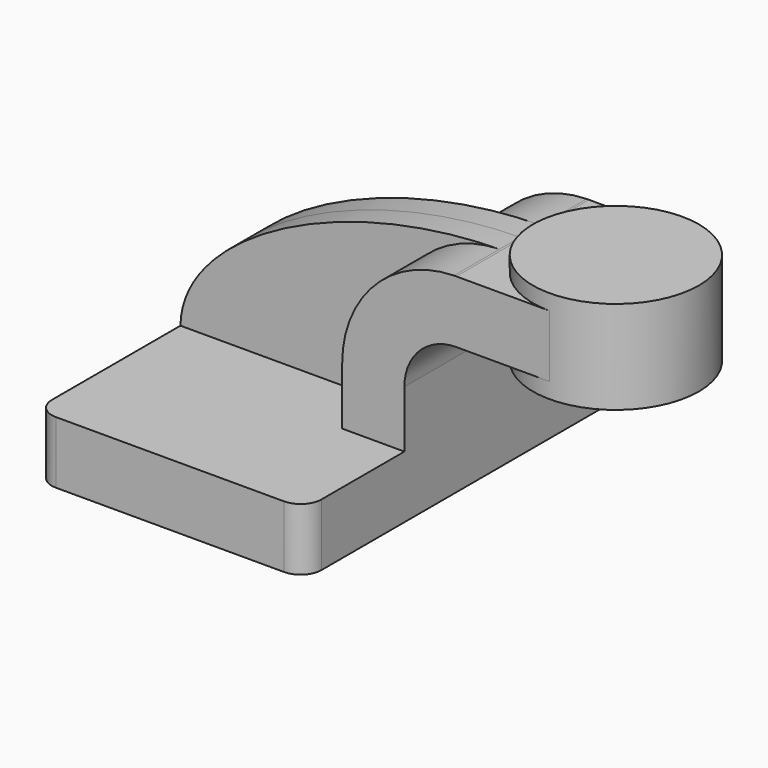
from build123d import *

# Parameters (mm, degrees)
F1_DEPTH = 63.5
F0_W     = 25.4
F0_H     = 19.05
F2_DEPTH = 25.4
F3_DEPTH = 7.9375
F5_R     = 6.35


with BuildPart() as f1:
    # F0 (on Front) → F1 (new body, symmetric)
    with BuildSketch(Plane.XZ):
        Polygon((-41.275, 9.525), (-41.275, -9.525), (41.275, -9.525), (41.275, 9.525), (22.225, 9.525), align=None)
    extrude(amount=F1_DEPTH, both=True)

    # F0 (on Front) → F2 (join, symmetric)
    with BuildSketch(Plane.XZ):
        with Locations((73.025, 52.4002)):
            Rectangle(F0_W, F0_H)
        with BuildLine():
            Line((22.225, 9.525), (41.275, 9.525))
            Line((41.275, 9.525), (41.275, 27.0002))
            ThreePointArc((41.275, 27.0002), (45.9246798487, 38.2255201513), (57.15, 42.8752))
            Line((57.15, 42.8752), (60.325, 42.8752))
            Line((60.325, 42.8752), (60.325, 61.9252))
            Line((60.325, 61.9252), (57.15, 61.9252))
            add(Edge.make_bspline(
                [(56.4515488483, 61.9182152785), (56.6842963027, 61.9210832952), (56.9171147806, 61.9234123626), (57.15, 61.9252)],
                knots=[110.9913484912, 110.9913484912, 110.9913484912, 110.9913484912, 111.5045361635, 111.5045361635, 111.5045361635, 111.5045361635], degree=3))
            ThreePointArc((56.4515488483, 61.9182152785), (32.2085783136, 51.4477174458), (22.225, 27.0002))
            Line((22.225, 27.0002), (22.225, 9.525))
        make_face()
    extrude(amount=F2_DEPTH, both=True)

    # F0 (on Front) → F3 (join, symmetric)
    with BuildSketch(Plane.XZ):
        with BuildLine():
            add(Edge.make_bspline(
                [(-41.275, 9.525), (-40.9026709166, 35.4675879968), (6.1133291004, 61.2979255596), (56.4515488483, 61.9182152785)],
                knots=[0, 0, 0, 0, 110.9913484912, 110.9913484912, 110.9913484912, 110.9913484912], degree=3))
            Line((-41.275, 9.525), (22.225, 9.525))
            Line((22.225, 9.525), (22.225, 27.0002))
            ThreePointArc((22.225, 27.0002), (32.2085783136, 51.4477174458), (56.4515488483, 61.9182152785))
        make_face()
    extrude(amount=F3_DEPTH, both=True)

    # F0 (on Front) → F4 (revolve)
    with BuildSketch(Plane.XZ):
        Polygon((85.725, 66.675), (85.725, 61.9252), (85.725, 42.8752), (85.725, 38.1), (111.125, 38.1), (111.125, 66.675), align=None)
    revolve(axis=Axis((85.725, 0, 52.3875), (0, 0, 1)))

    # F5
    f5_edges = [f1.edges().sort_by_distance(p)[0] for p in [
        (41.275, -63.5, 0),
        (-41.275, -63.5, 0),
        (41.275, 63.5, 0),
        (-41.275, 63.5, 0),
    ]]
    fillet(f5_edges, radius=F5_R)


solid = f1.part
